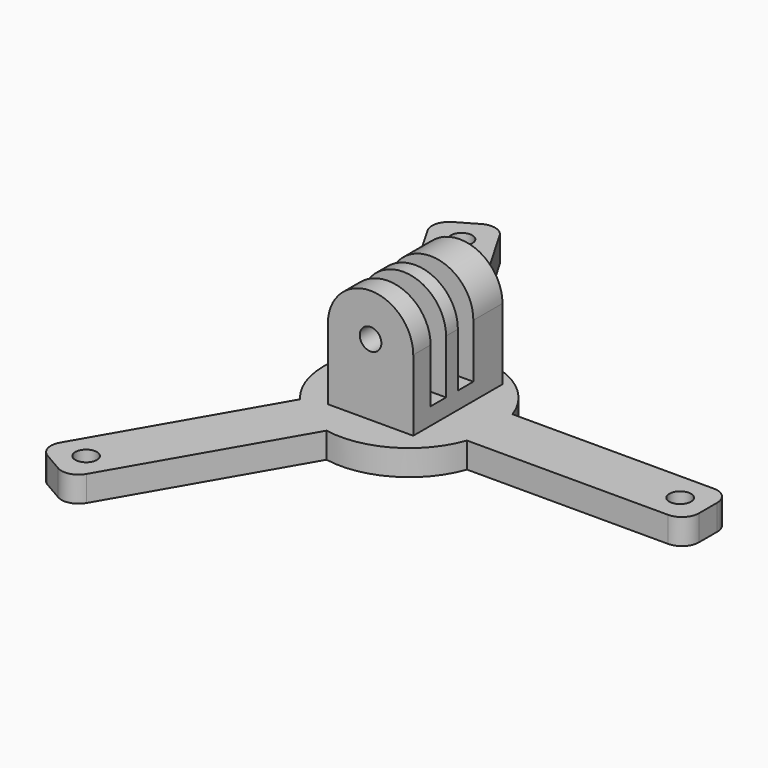
from build123d import *

# Parameters (mm, degrees)
CYLINDER009_R             = 1.9
CYLINDER009_DEPTH         = 4.5
BOX010_W                  = 45
BOX010_H                  = 10
BOX010_DEPTH              = 4.5
FILLET_R                  = 3
ARRAY002_COUNT            = 3
BOX003_W                  = 15
BOX003_H                  = 3.4
BOX003_DEPTH              = 17
ARRAY_Y_COUNT             = 2
ARRAY_Y_PITCH             = 6
CYLINDER002_R             = 2.2
CYLINDER002_DEPTH         = 6
CYLINDER001_R             = 1.9
CYLINDER001_DEPTH         = 15
FUSION001_PLACEMENT_ANGLE = 90
CYLINDER_R                = 7.5
CYLINDER_DEPTH            = 19.6
BOX002_W                  = 15
BOX002_H                  = 19.6
BOX002_DEPTH              = 12.5
CYLINDER007_R             = 15
CYLINDER007_DEPTH         = 4.5


with BuildPart() as bolt_hole002:
    # Cylinder009 → Cylinder009 (new body)
    with BuildSketch(Plane(origin=(47.6, 0, 0), x_dir=(1, 0, 0), z_dir=(0, 0, 1))):
        Circle(CYLINDER009_R)
    extrude(amount=CYLINDER009_DEPTH)


with BuildPart() as stand_stick_array:
    # Box010 → Box010 (new body)
    with BuildSketch(Plane(origin=(7.5, -5, 0), x_dir=(1, 0, 0), z_dir=(0, 0, 1))):
        with Locations((22.5, 5)):
            Rectangle(BOX010_W, BOX010_H)
    extrude(amount=BOX010_DEPTH)

    # Fillet
    fillet_edges = [stand_stick_array.edges().sort_by_distance(p)[0] for p in [
        (52.5, -5, 2.25),
        (52.5, 5, 2.25),
    ]]
    fillet(fillet_edges, radius=FILLET_R)

    # Cut006: cut bolt hole002
    add(bolt_hole002.part, mode=Mode.SUBTRACT)

    # Array002: stand stick array ×3 about axis
    array002_axis = Axis((0, 0, 0), (0, 0, 1))


with BuildPart() as stand_stick_array_1:
    add(stand_stick_array.part)
    for i in range(1, ARRAY002_COUNT):
        add(stand_stick_array.part.rotate(array002_axis, i * 360 / ARRAY002_COUNT))


with BuildPart() as side_3_extract_cube_array:
    # Box003 → Box003 (new body)
    with BuildSketch(Plane(origin=(-7.5, -7.7, 3), x_dir=(1, 0, 0), z_dir=(0, 0, 1))):
        with Locations((7.5, 1.7)):
            Rectangle(BOX003_W, BOX003_H)
    extrude(amount=BOX003_DEPTH)

    # Array Y: side 3 extract cube array ×2


with BuildPart() as side_3_extract_cube_array_1:
    add(side_3_extract_cube_array.part)
    with Locations(*[(0, i * ARRAY_Y_PITCH, 0) for i in range(1, ARRAY_Y_COUNT)]):
        add(side_3_extract_cube_array.part)


with BuildPart() as side_3_extract_cube_array_2:
    # Array placement: moved
    add(side_3_extract_cube_array_1.part.moved(Location((0, 3, 0))))


with BuildPart() as insert_hole:
    # Cylinder002 → Cylinder002 (new body)
    with BuildSketch(Plane.XY):
        Circle(CYLINDER002_R)
    extrude(amount=CYLINDER002_DEPTH)


with BuildPart() as side_3_extract_fusion:
    # Cylinder001 → Cylinder001 (new body)
    with BuildSketch(Plane.XY.offset(6)):
        Circle(CYLINDER001_R)
    extrude(amount=CYLINDER001_DEPTH)

    # Fusion001: union insert hole
    add(insert_hole.part)


with BuildPart() as side_3_extract_fusion_1:
    # Fusion001 placement: moved
    add(side_3_extract_fusion.part.moved(Location((0, 11.1, 12.5))).rotate(Axis((0, 11.1, 12.5), (1, 0, 0)), FUSION001_PLACEMENT_ANGLE))

    # Fusion002: union side 3 extract cube array
    add(side_3_extract_cube_array_2.part)


with BuildPart() as outer_cylinder:
    # Cylinder → Cylinder (new body)
    with BuildSketch(Plane(origin=(0, 11.1, 12.5), x_dir=(1, 0, 0), z_dir=(0, -1, 0))):
        Circle(CYLINDER_R)
    extrude(amount=CYLINDER_DEPTH)


with BuildPart() as side_3_cut_clone002:
    # Box002 → Box002 (new body)
    with BuildSketch(Plane(origin=(-7.5, -8.5, 0), x_dir=(1, 0, 0), z_dir=(0, 0, 1))):
        with Locations((7.5, 9.8)):
            Rectangle(BOX002_W, BOX002_H)
    extrude(amount=BOX002_DEPTH)

    # Fusion: union outer cylinder
    add(outer_cylinder.part)

    # Cut: cut side 3 extract fusion
    add(side_3_extract_fusion_1.part, mode=Mode.SUBTRACT)


with BuildPart() as side_3_cut_clone002_1:
    # Body005 placement: moved
    add(side_3_cut_clone002.part.moved(Location((0, 0, 4.5))))


with BuildPart() as stand_fusion:
    # Cylinder007 → Cylinder007 (new body)
    with BuildSketch(Plane.XY):
        Circle(CYLINDER007_R)
    extrude(amount=CYLINDER007_DEPTH)

    # Fusion007: union stand stick array, side 3 cut clone002
    add(stand_stick_array_1.part)
    add(side_3_cut_clone002_1.part)


solid = stand_fusion.part
